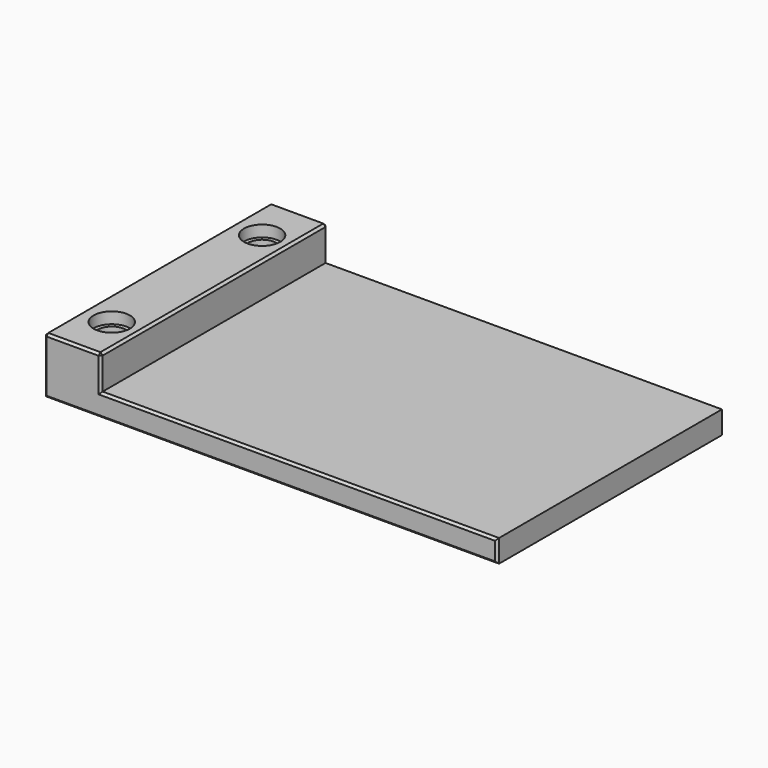
from build123d import *

# Parameters (mm, degrees)
F0_W           = 40
F0_H           = 25
F1_DEPTH       = 5
F2_W           = 35
F2_H           = 3
F3_DEPTH       = 25
F4_SIZE        = 0.2
F7_D           = 2.5
F7_CBORE_D     = 3.2
F7_CBORE_DEPTH = 1
F8_D           = 2.5
F8_CBORE_D     = 3.2
F8_CBORE_DEPTH = 1


with BuildPart() as f1:
    # F0 (on Top) → F1 (new body)
    with BuildSketch(Plane.XY):
        with Locations((20, 12.5)):
            Rectangle(F0_W, F0_H)
    extrude(amount=F1_DEPTH)

    # F2 (on face) → F3 (cut)
    with BuildSketch(Plane.XZ):
        with Locations((22.5, 3.5)):
            Rectangle(F2_W, F2_H)
    extrude(amount=-F3_DEPTH, mode=Mode.SUBTRACT)

    # F4
    f4_edges = [f1.edges().sort_by_distance(p)[0] for p in [
        (2.5, 25, 5),
        (5, 12.5, 5),
        (2.5, 0, 5),
        (0, 12.5, 5),
        (20, 0, 0),
        (40, 0, 1),
        (22.5, 0, 2),
        (5, 0, 3.5),
        (0, 0, 2.5),
        (20, 25, 0),
        (0, 25, 2.5),
        (5, 25, 3.5),
        (22.5, 25, 2),
        (40, 25, 1),
    ]]
    chamfer(f4_edges, length=F4_SIZE)

    # F7 (through all)
    with Locations(Plane.XY.offset(5)):
        with Locations((2.6, 20.8)):
            CounterBoreHole(F7_D / 2, F7_CBORE_D / 2, F7_CBORE_DEPTH)

    # F8 (through all)
    with Locations(Plane.XY.offset(5)):
        with Locations((2.6, 4.2)):
            CounterBoreHole(F8_D / 2, F8_CBORE_D / 2, F8_CBORE_DEPTH)


solid = f1.part
